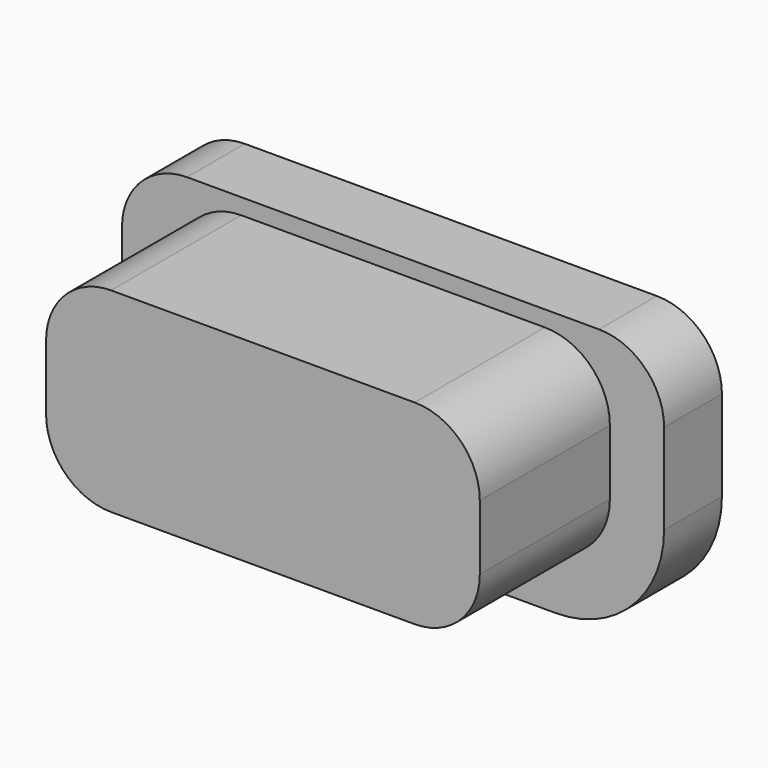
from build123d import *

# Parameters (mm, degrees)
EXTRUDE202_DEPTH = 1
EXTRUDE201_DEPTH = 2.75


with BuildPart() as extrude202:
    # Sketch203 → Extrude202 (new body)
    with BuildSketch(Plane.XZ):
        with BuildLine():
            ThreePointArc((11.7, 16.35), (11.063604, 16.086396), (10.8, 15.45))
            Line((10.8, 14.2), (10.8, 15.45))
            ThreePointArc((10.8, 14.2), (11.23934, 13.13934), (12.3, 12.7))
            Line((16.8, 12.7), (12.3, 12.7))
            ThreePointArc((16.8, 12.7), (17.86066, 13.13934), (18.3, 14.2))
            Line((18.3, 15.45), (18.3, 14.2))
            ThreePointArc((18.3, 15.45), (18.036396, 16.086396), (17.4, 16.35))
            Line((11.7, 16.35), (17.4, 16.35))
        make_face()
    extrude(amount=EXTRUDE202_DEPTH)


with BuildPart() as extrude202_1:
    # Extrude202 placement: moved
    add(extrude202.part.moved(Location((0, 2.5, 0))))


with BuildPart() as button004:
    # Sketch202 → Extrude201 (new body)
    with BuildSketch(Plane.XZ):
        with BuildLine():
            ThreePointArc((12.75, 16.23), (12.113604, 15.966396), (11.85, 15.33))
            Line((11.85, 14.43), (11.85, 15.33))
            ThreePointArc((11.85, 14.43), (12.113604, 13.793604), (12.75, 13.53))
            Line((16.95, 13.53), (12.75, 13.53))
            ThreePointArc((16.95, 13.53), (17.586396, 13.793604), (17.85, 14.43))
            Line((17.85, 15.33), (17.85, 14.43))
            ThreePointArc((17.85, 15.33), (17.586396, 15.966396), (16.95, 16.23))
            Line((12.75, 16.23), (16.95, 16.23))
        make_face()
    extrude(amount=EXTRUDE201_DEPTH)


with BuildPart() as button004_1:
    # Extrude201 placement: moved
    add(button004.part.moved(Location((-0.3, 2, -0.1))))

    # Fusion198: union Extrude202
    add(extrude202_1.part)


solid = button004_1.part
